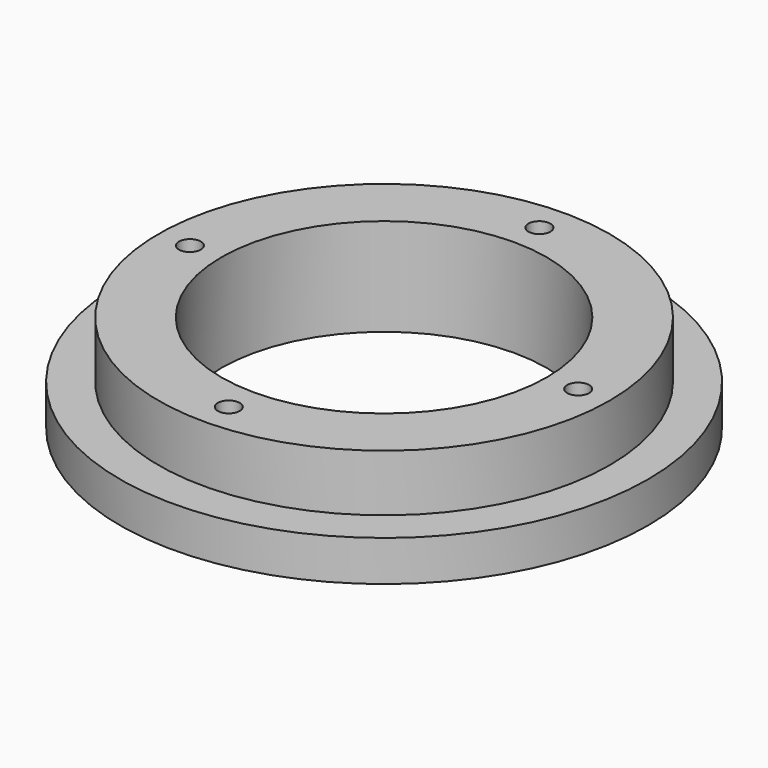
from build123d import *

# Parameters (mm, degrees)
F0_R     = 32.5
F0_R_2   = 27.78
F1_DEPTH = 5
F0_R_3   = 1.35
F0_R_4   = 20.03
F2_DEPTH = 12
F3_DEPTH = 6


with BuildPart() as f1:
    # F0 (on Top) → F1 (new body)
    with BuildSketch(Plane.XY):
        Circle(F0_R)
        Circle(F0_R_2, mode=Mode.SUBTRACT)
    extrude(amount=F1_DEPTH)

    # F0 (on Top) → F2 (join)
    with BuildSketch(Plane.XY):
        Circle(F0_R_2)
        with Locations((0, -23.905)):
            Circle(F0_R_3, mode=Mode.SUBTRACT)
        with Locations((-23.905, 0)):
            Circle(F0_R_3, mode=Mode.SUBTRACT)
        Circle(F0_R_4, mode=Mode.SUBTRACT)
        with Locations((23.905, 0)):
            Circle(F0_R_3, mode=Mode.SUBTRACT)
        with Locations((0, 23.905)):
            Circle(F0_R_3, mode=Mode.SUBTRACT)
    extrude(amount=F2_DEPTH)

    # F0 (on Top) → F3 (join)
    with BuildSketch(Plane.XY):
        with Locations((-23.905, 0)):
            Circle(F0_R_3)
        with Locations((0, 23.905)):
            Circle(F0_R_3)
        with Locations((23.905, 0)):
            Circle(F0_R_3)
        with Locations((0, -23.905)):
            Circle(F0_R_3)
    extrude(amount=F3_DEPTH)


solid = f1.part
